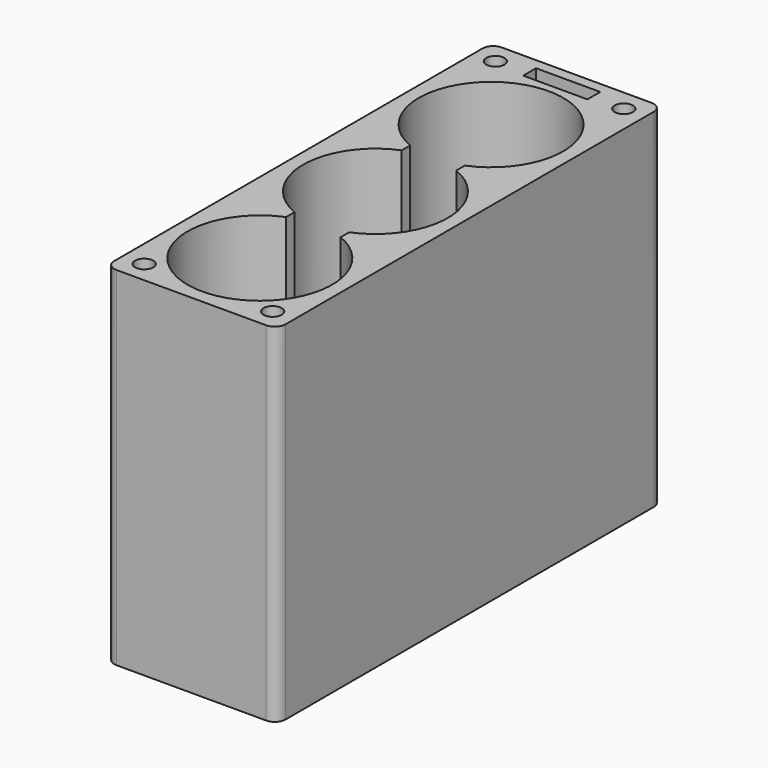
from build123d import *

# Parameters (mm, degrees)
SKETCH_W      = 32
SKETCH_H      = 90
SKETCH_R      = 1.7
SKETCH_W_2    = 12
SKETCH_H_2    = 3
EXTRUDE_DEPTH = 65
FILLET_R      = 2


with BuildPart() as part:
    # Sketch → Extrude (new body)
    with BuildSketch(Plane.XY):
        with Locations((0, 2)):
            Rectangle(SKETCH_W, SKETCH_H)
        with Locations((12, 43)):
            Circle(SKETCH_R, mode=Mode.SUBTRACT)
        with Locations((-12, 43)):
            Circle(SKETCH_R, mode=Mode.SUBTRACT)
        with Locations((-12, -39)):
            Circle(SKETCH_R, mode=Mode.SUBTRACT)
        with Locations((12, -39)):
            Circle(SKETCH_R, mode=Mode.SUBTRACT)
        with BuildLine():
            ThreePointArc((5.09902, 14.5), (0, 40.5), (-5.09902, 14.5))
            Line((-5.09902, 14.5), (-5.09902, 12.5))
            ThreePointArc((-5.09902, 12.5), (-13.5, 0), (-5.09902, -12.5))
            Line((-5.09902, -12.5), (-5.09902, -14.5))
            ThreePointArc((-5.09902, -14.5), (0, -40.5), (5.09902, -14.5))
            Line((5.09902, -12.5), (5.09902, -14.5))
            ThreePointArc((5.09902, -12.5), (13.5, 0), (5.09902, 12.5))
            Line((5.09902, 14.5), (5.09902, 12.5))
        make_face(mode=Mode.SUBTRACT)
        with Locations((0, 43.5)):
            Rectangle(SKETCH_W_2, SKETCH_H_2, mode=Mode.SUBTRACT)
    extrude(amount=EXTRUDE_DEPTH)

    # Fillet
    fillet_edges = [part.edges().sort_by_distance(p)[0] for p in [
        (-16, 47, 32.5),
        (16, 47, 32.5),
        (16, -43, 32.5),
        (-16, -43, 32.5),
    ]]
    fillet(fillet_edges, radius=FILLET_R)


solid = part.part
